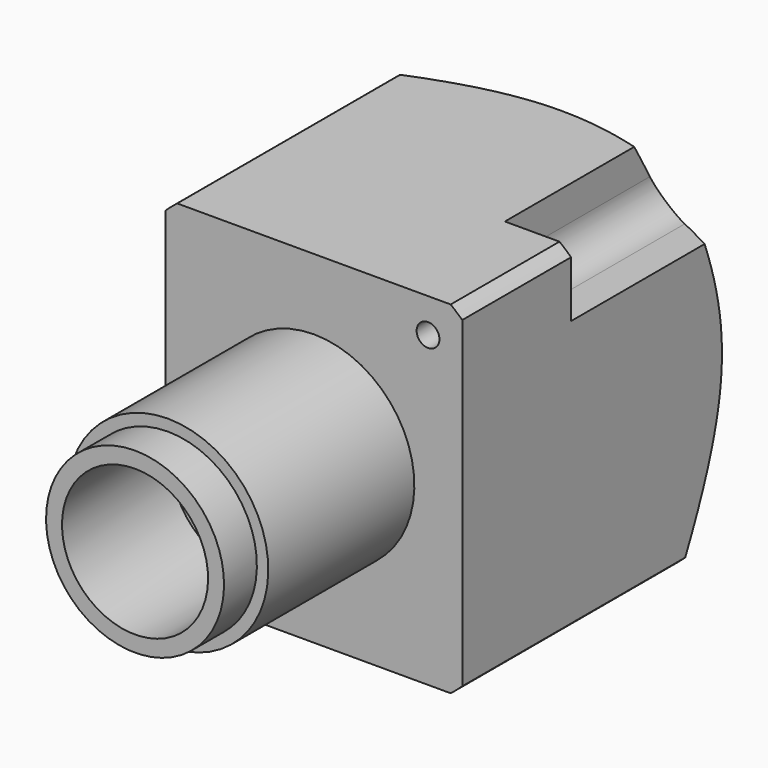
from build123d import *

# Parameters (mm, degrees)
F2_W     = 79.127467
F2_H     = 78.408126
F2_W_2   = 32.5
F2_H_2   = 37.5
F3_DEPTH = 66.201
F5_DEPTH = 26.8
F7_D     = 2.5
F7_DEPTH = 50
F8_SIZE  = 1


with BuildPart() as f1:
    # F0 (on Right) → F1 (revolve)
    with BuildSketch(Plane.YZ):
        Polygon((24.5, 11), (4.5, 11), (4.5, 9.75), (0, 9.75), (0, 8), (15, 8), (15, 6), (50, 6), (50, 4), (66.2, 4), (66.2, 10.9), (62.5, 10.9), (62.5, 12.5), (55.031813, 24), (24.5, 24), align=None)
    revolve(axis=Axis((0, 44.76735, 0), (0, 1, 0)))

    # F2 (on face) → F3 (cut, through all)
    with BuildSketch(Plane(origin=(0, 66.2, 0), x_dir=(-1, 0, 0), z_dir=(0, 1, 0))):
        with Locations((1.602461, -2.474608)):
            Rectangle(F2_W, F2_H)
        Rectangle(F2_W_2, F2_H_2, mode=Mode.SUBTRACT)
    extrude(amount=-F3_DEPTH, mode=Mode.SUBTRACT)

    # F4 (on face) → F5 (cut)
    with BuildSketch(Plane(origin=(0, 66.2, 0), x_dir=(-1, 0, 0), z_dir=(0, 1, 0))):
        with BuildLine():
            Line((-18, 11.501228), (-12.592719, 11.501228))
            ThreePointArc((-12.592719, 11.501228), (-10.058127, 12.492559), (-9, 15))
            Line((-9, 15), (-9, 21))
            Line((-9, 21), (-18, 21))
            Line((-18, 21), (-18, 11.501228))
        make_face()
        with BuildLine():
            Line((18, -11.5), (12.5, -11.5))
            ThreePointArc((12.5, -11.5), (10.025126, -12.525126), (9, -15))
            Line((9, -15), (9, -21))
            Line((9, -21), (18, -21))
            Line((18, -21), (18, -11.5))
        make_face()
    extrude(amount=-F5_DEPTH, mode=Mode.SUBTRACT)

    # F7
    with Locations(Plane(origin=(0, 39.4, 0), x_dir=(-1, 0, 0), z_dir=(0, 1, 0))):
        with Locations((-12.5, 15), (12.5, -15)):
            Hole(F7_D / 2, depth=F7_DEPTH)

    # F8
    f8_edges = [f1.edges().sort_by_distance(p)[0] for p in [
        (0, 66.2, -10.9),
    ]]
    chamfer(f8_edges, length=F8_SIZE)


solid = f1.part
